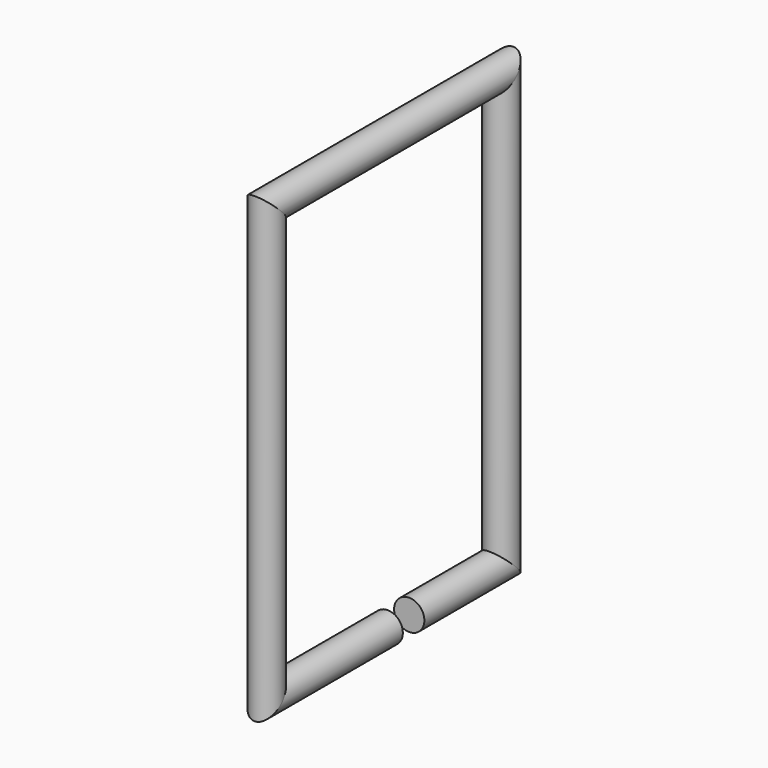
from build123d import *

# Parameters (mm, degrees)
F0_R = 0.889


with BuildPart() as f2:
    # F2: sweep along a path in F1
    with BuildLine(Plane.YZ) as f2_path:
        Line((0, 0), (-8.89, 0))
        Line((-8.89, 0), (-8.89, 25.4))
        Line((-8.89, 25.4), (8.3446010148, 25.4))
        Line((8.3446010148, 25.4), (8.3446010148, 0))
        Line((8.3446010148, 0), (1.5816572689, 0))
    # F0 (on Front) → F2 (sweep)
    with BuildSketch(Plane.XZ):
        Circle(F0_R)
    sweep(path=f2_path.line, transition=Transition.RIGHT)


solid = f2.part
